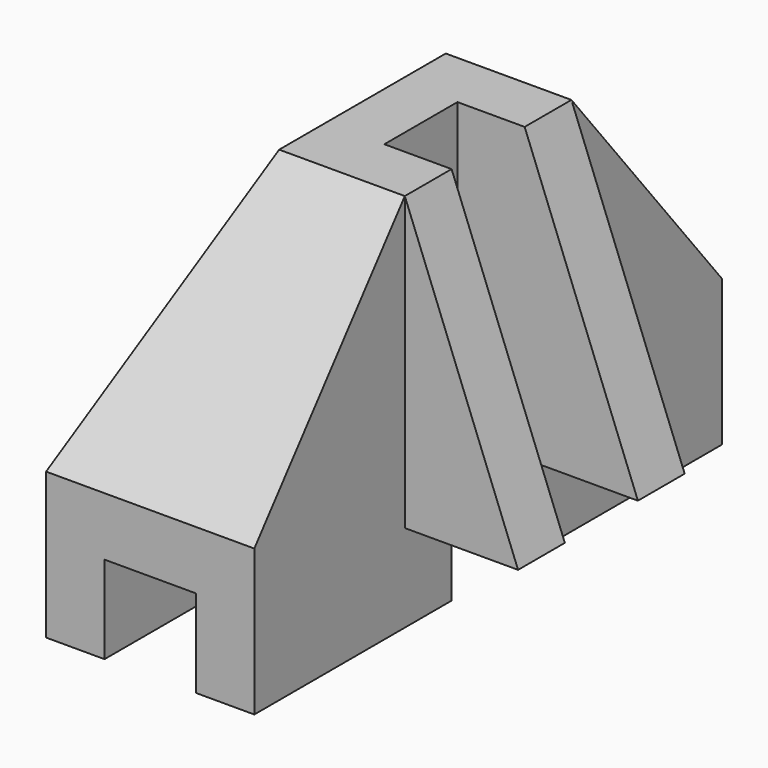
from build123d import *

# Parameters (mm, degrees)
F0_W           = 27.94
F0_H           = 50.8
F1_DEPTH       = 33.02
F2_W           = 7.9375
F2_H           = 50.8
F3_DEPTH       = 7.62
F4_W           = 15.875
F4_H           = 7.9375
F5_DEPTH       = 7.62
F6_W           = 15.6845
F6_H           = 7.9375
F7_DEPTH       = 25.4
F8_W           = 9.8425
F8_H           = 16.35125
F9_DEPTH       = 33.02
F11_DEPTH      = 27.941
F13_DEPTH      = 25.401
F13_DEPTH_BACK = 25.4
F14_W          = 9.8425
F14_H          = 7.62
F15_DEPTH      = 34.44975
F17_DEPTH      = 34.44975


with BuildPart() as f1:
    # F0 (on Top) → F1 (new body)
    with BuildSketch(Plane.XY):
        Rectangle(F0_W, F0_H)
    extrude(amount=F1_DEPTH)

    # F2 (on face) → F3 (cut)
    with BuildSketch(Plane(origin=(0, 0, 0), x_dir=(1, 0, 0), z_dir=(0, 0, -1))):
        with Locations((-4.92125, 0)):
            Rectangle(F2_W, F2_H)
    extrude(amount=-F3_DEPTH, mode=Mode.SUBTRACT)

    # F4 (on face) → F5 (cut, through all)
    with BuildSketch(Plane(origin=(0, 0, 0), x_dir=(1, 0, 0), z_dir=(0, 0, -1))):
        with Locations((6.985, 0)):
            Rectangle(F4_W, F4_H)
    extrude(amount=-F5_DEPTH, mode=Mode.SUBTRACT)

    # F6 (on face) → F7 (cut, through all)
    with BuildSketch(Plane(origin=(0, 0, 7.62), x_dir=(1, 0, 0), z_dir=(0, 0, -1))):
        with Locations((6.12775, 0)):
            Rectangle(F6_W, F6_H)
    extrude(amount=-F7_DEPTH, mode=Mode.SUBTRACT)

    # F8 (on face) → F9 (cut, through all)
    with BuildSketch(Plane(origin=(0, 0, 0), x_dir=(1, 0, 0), z_dir=(0, 0, -1))):
        with Locations((9.04875, -17.224375)):
            Rectangle(F8_W, F8_H)
        with Locations((9.04875, 17.224375)):
            Rectangle(F8_W, F8_H)
    extrude(amount=-F9_DEPTH, mode=Mode.SUBTRACT)

    # F10 (on face) → F11 (cut, through all)
    with BuildSketch(Plane(origin=(-13.97, 0, 0), x_dir=(0, -1, 0), z_dir=(-1, 0, 0))):
        Polygon((-25.4, 12.7), (-9.04875, 33.02), (-25.4, 33.02), align=None)
        Polygon((25.4, 33.02), (9.04875, 33.02), (25.4, 12.7), align=None)
    extrude(amount=-F11_DEPTH, mode=Mode.SUBTRACT)

    # F12 (on Front) → F13 (cut, two sides)
    with BuildSketch(Plane.XZ) as f13_sk:
        Polygon((-6.7945, 33.02), (-13.97, 33.02), (-13.97, 12.7), align=None)
    extrude(amount=-F13_DEPTH, mode=Mode.SUBTRACT)
    extrude(f13_sk.sketch, amount=F13_DEPTH_BACK, mode=Mode.SUBTRACT)

    # F14 (on face) → F15 (cut, through all)
    with BuildSketch(Plane(origin=(0, 9.04875, 0), x_dir=(-1, 0, 0), z_dir=(0, 1, 0))):
        with Locations((-9.04875, 3.81)):
            Rectangle(F14_W, F14_H)
    extrude(amount=-F15_DEPTH, mode=Mode.SUBTRACT)

    # F16 (on face) → F17 (cut, through all)
    with BuildSketch(Plane.XZ.offset(9.04875)):
        Polygon((13.97, 33.02), (4.1275, 33.02), (13.97, 7.62), align=None)
    extrude(amount=-F17_DEPTH, mode=Mode.SUBTRACT)


solid = f1.part
